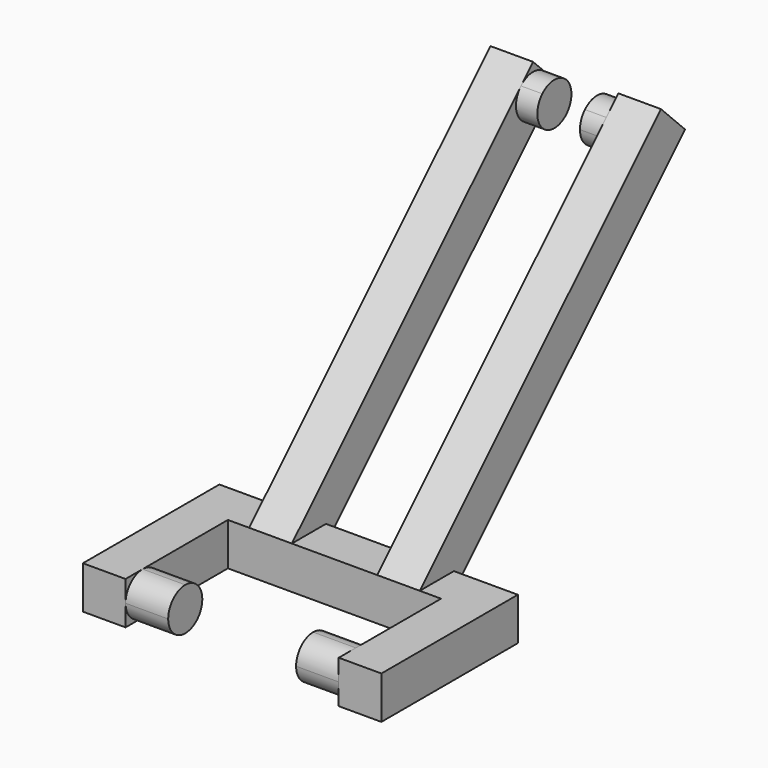
from build123d import *

# Parameters (mm, degrees)
F1_DEPTH  = 10
F3_DEPTH  = 10
F5_DEPTH  = 10
F7_W      = 10
F7_H      = 10
F8_DEPTH  = 100
F10_DEPTH = 5
F12_DEPTH = 5


with BuildPart() as f1:
    # F0 (on Top) → F1 (new body)
    with BuildSketch(Plane.XY):
        Polygon((-23.817373896, 17.9644496739), (-23.817373896, -22.0355503261), (-13.817373896, -22.0355503261), (-13.817373896, -12.0355503261), (-13.817373896, 7.9644496739), (11.182626104, 7.9644496739), (36.182626104, 7.9644496739), (36.182626104, -12.0355503261), (36.182626104, -22.0355503261), (46.182626104, -22.0355503261), (46.182626104, 17.9644496739), (11.182626104, 17.9644496739), align=None)
    extrude(amount=F1_DEPTH)

    # F2 (on face) → F3 (join)
    with BuildSketch(Plane.YZ.offset(-13.817373896)):
        with BuildLine():
            ThreePointArc((-17.0355503261, 0), (-13.5000164202, 1.4644660941), (-12.0355503261, 5))
            ThreePointArc((-12.0355503261, 5), (-13.5000164202, 8.5355339059), (-17.0355503261, 10))
            ThreePointArc((-17.0355503261, 10), (-20.571084232, 8.5355339059), (-22.0355503261, 5))
            ThreePointArc((-22.0355503261, 5), (-20.571084232, 1.4644660941), (-17.0355503261, 0))
        make_face()
    extrude(amount=F3_DEPTH)

    # F4 (on face) → F5 (join)
    with BuildSketch(Plane(origin=(36.182626104, 0, 0), x_dir=(0, -1, 0), z_dir=(-1, 0, 0))):
        with BuildLine():
            ThreePointArc((17.0355503261, 0), (20.571084232, 1.4644660941), (22.0355503261, 5))
            ThreePointArc((22.0355503261, 5), (20.571084232, 8.5355339059), (17.0355503261, 10))
            ThreePointArc((17.0355503261, 10), (12.0355503261, 5), (17.0355503261, 0))
        make_face()
    extrude(amount=F5_DEPTH)

    # F7 (on face) → F8 (join)
    with BuildSketch(Plane(origin=(0, 8.9822248369, 8.9822248369), x_dir=(1, 0, 0), z_dir=(0, -0.7071067812, -0.7071067812))):
        with Locations((26.182626104, -3.560648561)):
            Rectangle(F7_W, F7_H)
        with Locations((-3.817373896, -3.560648561)):
            Rectangle(F7_W, F7_H)
    extrude(amount=-F8_DEPTH)

    # F9 (on face) → F10 (join)
    with BuildSketch(Plane.YZ.offset(1.182626104)):
        with BuildLine():
            ThreePointArc((82.2106616934, 70.1040763958), (83.2945254537, 71.7261931416), (83.6751277925, 73.6396103068))
            ThreePointArc((83.6751277925, 73.6396103068), (83.2945254551, 75.5530274686), (82.2106616985, 77.1751442127))
            ThreePointArc((82.2106616985, 77.1751442127), (78.6751277925, 78.6396103068), (75.1395938866, 77.1751442127))
            ThreePointArc((75.1395938866, 77.1751442127), (75.1395938841, 70.1040764034), (82.2106616934, 70.1040763958))
        make_face()
    extrude(amount=F10_DEPTH)

    # F11 (on face) → F12 (join)
    with BuildSketch(Plane(origin=(21.182626104, 0, 0), x_dir=(0, -1, 0), z_dir=(-1, 0, 0))):
        with BuildLine():
            ThreePointArc((-82.2106617767, 70.104076479), (-76.7617106818, 69.0202126231), (-73.6751277925, 73.6396103068))
            ThreePointArc((-73.6751277925, 73.6396103068), (-74.0557301241, 75.5530274545), (-75.139593865, 77.1751441911))
            ThreePointArc((-75.139593865, 77.1751441911), (-78.6751277889, 78.6396103068), (-82.210661715, 77.1751441962))
            ThreePointArc((-82.210661715, 77.1751441962), (-83.6751277925, 73.6396103504), (-82.2106617767, 70.104076479))
        make_face()
    extrude(amount=F12_DEPTH)


solid = f1.part
